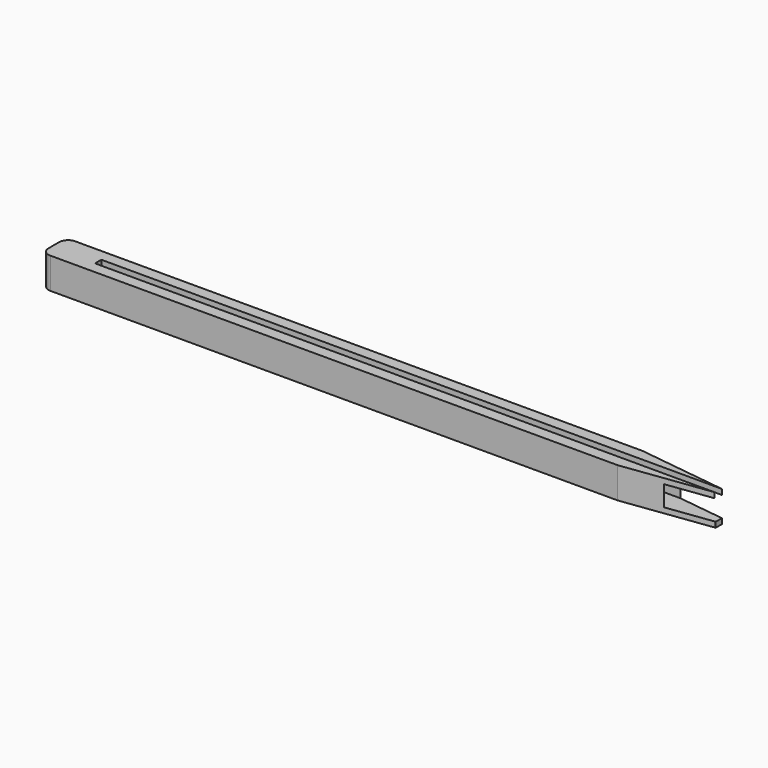
from build123d import *

# Parameters (mm, degrees)
F0_W     = 150
F0_H     = 7
F1_DEPTH = 3.5
F2_W     = 1.7826502014
F2_H     = 1.2
F3_DEPTH = 140
F4_R     = 2
F6_DEPTH = 7.001


with BuildPart() as f1:
    # F0 (on Front) → F1 (new body, symmetric)
    with BuildSketch(Plane.XZ):
        Rectangle(F0_W, F0_H)
    extrude(amount=F1_DEPTH, both=True)

    # F2 (on face) → F3 (cut)
    with BuildSketch(Plane.YZ.offset(75)):
        with Locations((0, 2.9)):
            Rectangle(F2_W, F2_H)
        with Locations((0, 2.9)):
            Rectangle(F2_W, F2_H)
        Polygon((-2.25, 2.3), (-2.25, -2.3), (2.25, -2.3), (2.25, 2.3), (0.8913251007, 2.3), (-0.8913251007, 2.3), align=None)
    extrude(amount=-F3_DEPTH, mode=Mode.SUBTRACT)

    # F4
    f4_edges = [f1.edges().sort_by_distance(p)[0] for p in [
        (-75, 3.5, 0),
        (-75, -3.5, 0),
    ]]
    fillet(f4_edges, radius=F4_R)

    # F5 (on face) → F6 (cut, through all)
    with BuildSketch(Plane.XY.offset(3.5)):
        Polygon((75, 3.5), (55, 3.5), (75, 0.8913251007), align=None)
        Polygon((75, -0.8913251007), (74.7628584504, -0.8913251007), (55, -3.5), (75, -3.5), align=None)
    extrude(amount=-F6_DEPTH, mode=Mode.SUBTRACT)


solid = f1.part
